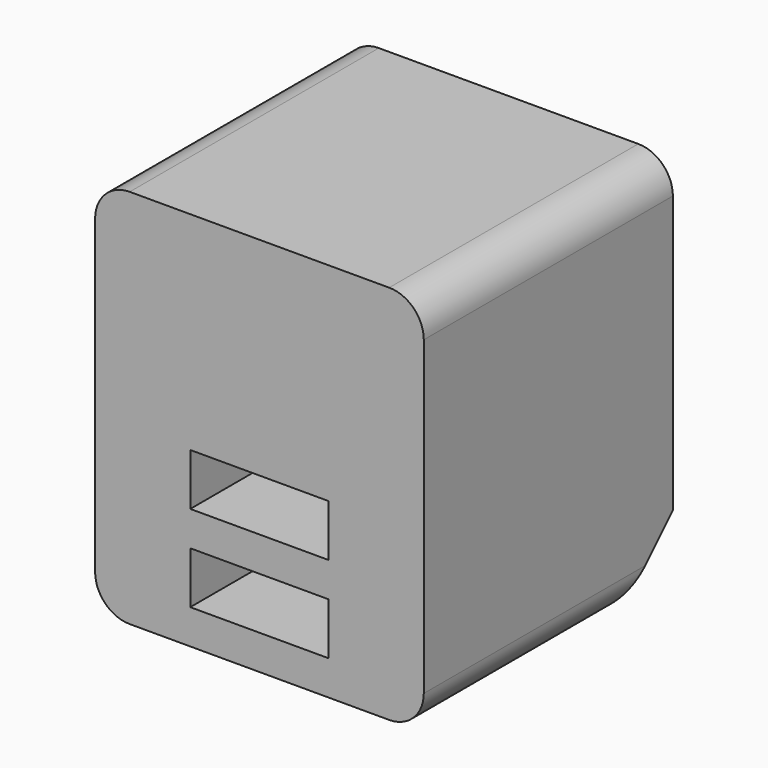
from build123d import *

# Parameters (mm, degrees)
F1_DEPTH = 28.575
F3_DEPTH = 30.1635
F6_W     = 12.7
F6_H     = 4.7625
F7_DEPTH = 12.7


with BuildPart() as f1:
    # F0 (on Front) → F1 (new body)
    with BuildSketch(Plane.XZ):
        with BuildLine():
            ThreePointArc((15.08125, 14.2875), (14.151314, 16.532564), (11.90625, 17.4625))
            Line((11.90625, 17.4625), (-11.90625, 17.4625))
            ThreePointArc((-11.90625, 17.4625), (-14.151314, 16.532564), (-15.08125, 14.2875))
            Line((-15.08125, 14.2875), (-15.08125, -14.2875))
            ThreePointArc((-15.08125, -14.2875), (-14.151314, -16.532564), (-11.90625, -17.4625))
            Line((-11.90625, -17.4625), (11.90625, -17.4625))
            ThreePointArc((11.90625, -17.4625), (14.151314, -16.532564), (15.08125, -14.2875))
            Line((15.08125, -14.2875), (15.08125, 14.2875))
        make_face()
    extrude(amount=-F1_DEPTH)

    # F2 (on face) → F3 (cut, through all)
    with BuildSketch(Plane.YZ.offset(15.08125)):
        Polygon((28.575, -17.4625), (28.575, -11.1125), (22.225, -17.4625), align=None)
    extrude(amount=-F3_DEPTH, mode=Mode.SUBTRACT)

    # F6 (on face) → F7 (cut)
    with BuildSketch(Plane.XZ):
        with Locations((0, -11.90625)):
            Rectangle(F6_W, F6_H)
        with Locations((0, -3.96875)):
            Rectangle(F6_W, F6_H)
    extrude(amount=-F7_DEPTH, mode=Mode.SUBTRACT)


solid = f1.part
